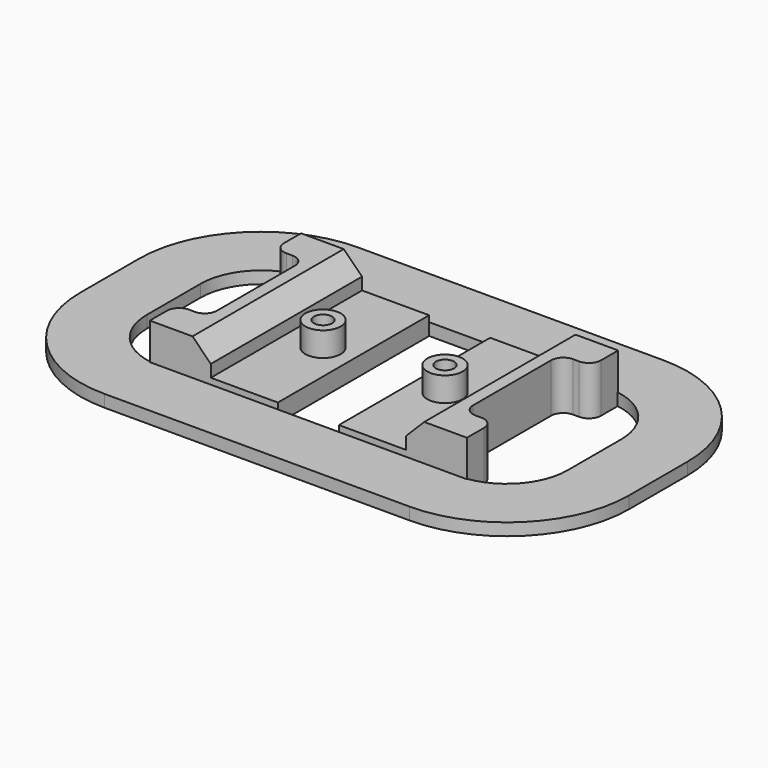
from build123d import *

# Parameters (mm, degrees)
F0_W          = 52
F0_H          = 31
F1_DEPTH      = 3
F2_W          = 10
F2_H          = 31
F3_DEPTH      = 5
F4_SIZE       = 3
F5_R          = 2.9
F6_DEPTH      = 4
F7_W          = 90
F7_H          = 52
F8_DEPTH      = 2
F8_DEPTH_BACK = 1
F9_DEPTH      = 1
F10_DEPTH     = 2
F11_R         = 20
F12_R         = 1.5
F13_DEPTH     = 25
F14_R         = 1.5
F15_DEPTH     = 25
F17_DEPTH     = 25
F18_W         = 10
F18_H         = 31
F19_DEPTH     = 25
F20_W         = 10
F20_H         = 20
F21_DEPTH     = 25
F22_W         = 10
F22_H         = 20
F23_DEPTH     = 25
F24_R         = 2


with BuildPart() as f1:
    # F0 (on Top) → F1 (new body)
    with BuildSketch(Plane.XY):
        Rectangle(F0_W, F0_H)
    extrude(amount=-F1_DEPTH)

    # F2 (on face) → F3 (join)
    with BuildSketch(Plane.XY):
        with Locations((21, 0)):
            Rectangle(F2_W, F2_H)
        with Locations((-21, 0)):
            Rectangle(F2_W, F2_H)
    extrude(amount=F3_DEPTH)

    # F4
    f4_edges = [f1.edges().sort_by_distance(p)[0] for p in [
        (-16, 0, 5),
        (16, 0, 5),
    ]]
    chamfer(f4_edges, length=F4_SIZE)

    # F5 (on face) → F6 (join)
    with BuildSketch(Plane.XY):
        with Locations((-10, 0)):
            Circle(F5_R)
        with Locations((10, 0)):
            Circle(F5_R)
    extrude(amount=F6_DEPTH)

    # F7 (on face) → F8 (join, two sides)
    with BuildSketch(Plane(origin=(0, 0, -3), x_dir=(1, 0, 0), z_dir=(0, 0, -1))) as f8_sk:
        Rectangle(F7_W, F7_H)
    extrude(amount=F8_DEPTH)
    extrude(f8_sk.sketch, amount=-F8_DEPTH_BACK)

    # F9 (add): a face of the model
    f9_faces = [f1.faces().sort_by_distance(p)[0] for p in [
        (43.9605770832, 0, -2),
    ]]
    extrude(f9_faces, amount=F9_DEPTH)

    # F10 (cut): a face of the model
    f10_faces = [f1.faces().sort_by_distance(p)[0] for p in [
        (0, 0, -5),
    ]]
    extrude(f10_faces, amount=-F10_DEPTH, mode=Mode.SUBTRACT)

    # F11
    f11_edges = [f1.edges().sort_by_distance(p)[0] for p in [
        (45, 26, -2),
        (-45, 26, -2),
        (-45, -26, -2),
        (45, -26, -2),
    ]]
    fillet(f11_edges, radius=F11_R)

    # F12 (on face) → F13 (cut)
    with BuildSketch(Plane.XY.offset(4)):
        with Locations((-10, 0)):
            Circle(F12_R)
    extrude(amount=-F13_DEPTH, mode=Mode.SUBTRACT)

    # F14 (on face) → F15 (cut)
    with BuildSketch(Plane.XY.offset(4)):
        with Locations((10, 0)):
            Circle(F14_R)
    extrude(amount=-F15_DEPTH, mode=Mode.SUBTRACT)

    # F16 (on face) → F17 (cut)
    with BuildSketch(Plane.XY.offset(-1)):
        with BuildLine():
            Line((26, 15.3868599666), (26, -15.3868599666))
            ThreePointArc((26, -15.3868599666), (32.0828754441, -12.0192024052), (34.5, -5.5))
            Line((34.5, -5.5), (34.5, 5.5))
            ThreePointArc((34.5, 5.5), (32.0828754441, 12.0192024052), (26, 15.3868599666))
        make_face()
        with BuildLine():
            ThreePointArc((-34.5, -5.5), (-32.0828754441, -12.0192024052), (-26, -15.3868599666))
            Line((-26, -15.3868599666), (-26, 15.3868599666))
            ThreePointArc((-26, 15.3868599666), (-32.0828754441, 12.0192024052), (-34.5, 5.5))
            Line((-34.5, 5.5), (-34.5, -5.5))
        make_face()
    extrude(amount=-F17_DEPTH, mode=Mode.SUBTRACT)

    # F18 (on face) → F19 (cut)
    with BuildSketch(Plane.XY):
        Rectangle(F18_W, F18_H)
    extrude(amount=-F19_DEPTH, mode=Mode.SUBTRACT)

    # F20 (on face) → F21 (cut)
    with BuildSketch(Plane.XY.offset(5)):
        with Locations((26, 0)):
            Rectangle(F20_W, F20_H)
    extrude(amount=-F21_DEPTH, mode=Mode.SUBTRACT)

    # F22 (on face) → F23 (cut)
    with BuildSketch(Plane.XY.offset(5)):
        with Locations((-26, 0)):
            Rectangle(F22_W, F22_H)
    extrude(amount=-F23_DEPTH, mode=Mode.SUBTRACT)

    # F24
    f24_edges = [f1.edges().sort_by_distance(p)[0] for p in [
        (21, 10, 1),
        (21, -10, 1),
        (-21, 10, 1),
        (-21, -10, 1),
        (-26, -10, 1),
        (-26, 10, 1),
        (26, 10, 1),
        (26, -10, 1),
    ]]
    fillet(f24_edges, radius=F24_R)


solid = f1.part
